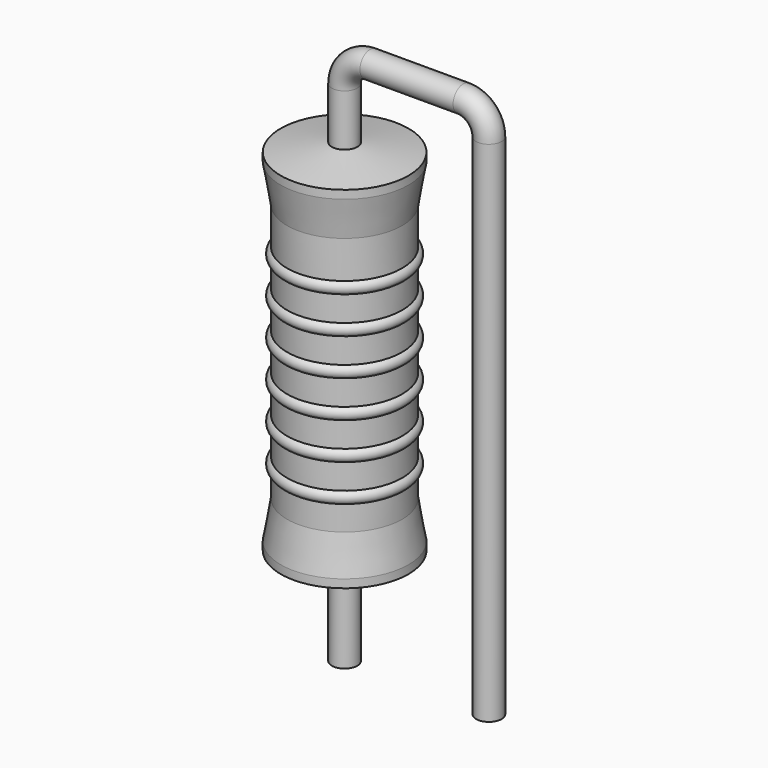
from build123d import *

# Parameters (mm, degrees)
SKETCH_R = 0.45


with BuildPart() as revolution:
    # Sketch002 → Revolution (revolve)
    with BuildSketch(Plane.XZ):
        Polygon((0, 0.1), (0, 13.1), (0.3375, 13.1), (2.25, 12.775), (2.25, 12.4825), (2.025, 11.15), (2.025, 2.05), (2.25, 0.7175), (2.25, 0.425), (0.3375, 0.1), align=None)
    revolve(axis=Axis((0, 0, 0), (0, 0, 1)))


with BuildPart() as revolution001:
    # Sketch003 → Revolution001 (revolve)
    with BuildSketch(Plane.XZ):
        with BuildLine():
            Line((1.8, 10.7), (1.8, 2.05))
            Line((1.8, 2.05), (1.935, 2.05))
            Line((1.935, 2.05), (1.935, 2.9))
            ThreePointArc((1.935, 2.9), (2.16, 3.125), (1.935, 3.35))
            Line((1.935, 3.35), (1.935, 4.2))
            ThreePointArc((1.935, 4.2), (2.16, 4.425), (1.935, 4.65))
            Line((1.935, 4.65), (1.935, 5.5))
            ThreePointArc((1.935, 5.5), (2.16, 5.725), (1.935, 5.95))
            Line((1.935, 5.95), (1.935, 6.8))
            ThreePointArc((1.935, 6.8), (2.16, 7.025), (1.935, 7.25))
            Line((1.935, 7.25), (1.935, 8.1))
            ThreePointArc((1.935, 8.1), (2.16, 8.325), (1.935, 8.55))
            Line((1.935, 8.55), (1.935, 9.4))
            ThreePointArc((1.935, 9.4), (2.16, 9.625), (1.935, 9.85))
            Line((1.935, 10.7), (1.935, 9.85))
            Line((1.8, 10.7), (1.935, 10.7))
        make_face()
    revolve(axis=Axis((0, 0, 0), (0, 0, 1)))


with BuildPart() as obj1:
    # Sweep: sweep along a path in Sketch001
    with BuildLine(Plane.XZ) as sweep_path:
        Line((0, -3), (0, 14.9))
        ThreePointArc((0, 14.9), (0.263601, 15.536393), (0.899992, 15.8))
        Line((0.899992, 15.8), (4.18, 15.8))
        ThreePointArc((4.18, 15.8), (4.816396, 15.536396), (5.08, 14.9))
        Line((5.08, 14.9), (5.08, -3))
    # Sketch → Sweep (sweep)
    with BuildSketch(Plane.XY.offset(-2)):
        Circle(SKETCH_R)
    sweep(path=sweep_path.line)

    # obj1: union Revolution, Revolution001
    add(revolution.part)
    add(revolution001.part)


solid = obj1.part
